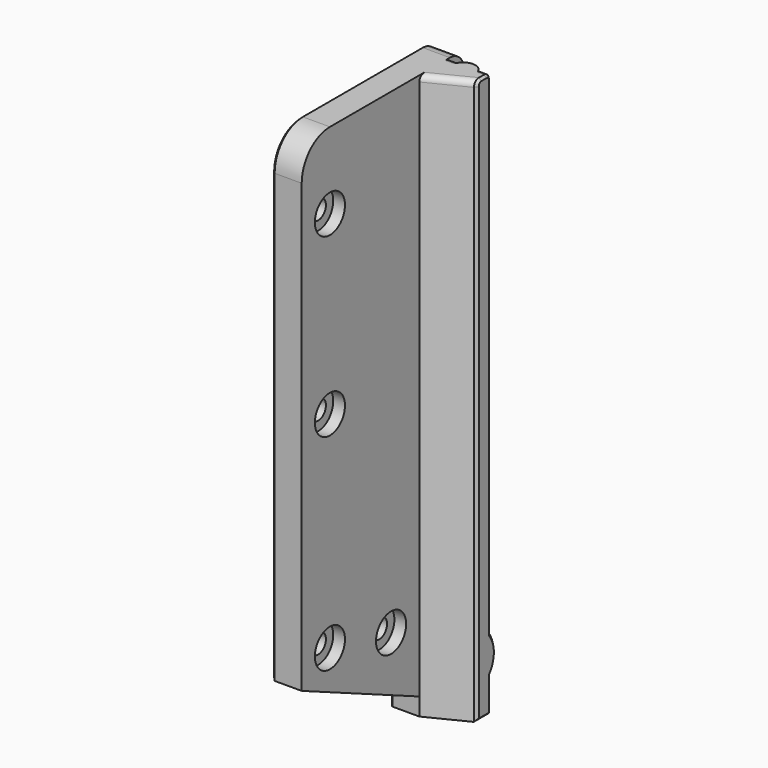
from build123d import *

# Parameters (mm, degrees)
PAD_DEPTH       = 96
SKETCH001_R     = 2
PAD001_DEPTH    = 96
PAD002_DEPTH    = 7
SKETCH003_R     = 1.65
POCKET_DEPTH    = 12.001
SKETCH004_R     = 3.2
POCKET001_DEPTH = 2
POCKET004_DEPTH = 5.001
SKETCH014_R     = 1.65
POCKET010_DEPTH = 5.001
SKETCH015_R     = 3.2
POCKET011_DEPTH = 2
FILLET_R        = 6
FILLET001_R     = 3
CHAMFER001_SIZE = 0.4
FILLET002_R     = 1
CHAMFER002_SIZE = 0.4


with BuildPart() as part:
    # Sketch → Pad (new body)
    with BuildSketch(Plane.XY):
        Polygon((0, 0), (0, 3), (-5, 3), (-5, -31.5), (0, -31.5), (0, -6.5), (7, -3), (7, 0), align=None)
    extrude(amount=PAD_DEPTH)

    # Sketch001 (on Face10 of Pad) → Pad001 (join)
    with BuildSketch(Plane.XY.offset(96)):
        with Locations((3.5, -1.5)):
            Circle(SKETCH001_R)
    extrude(amount=-PAD001_DEPTH)

    # Sketch002 (on Face7 of Pad001) → Pad002 (join)
    with BuildSketch(Plane.YZ.offset(7)):
        with BuildLine():
            ThreePointArc((0, 6), (1, 9), (0, 12))
            Line((0, 12), (0, 6))
        make_face()
    extrude(amount=-PAD002_DEPTH)

    # Sketch003 (on Face14 of Pad002) → Pocket (cut, through all)
    with BuildSketch(Plane(origin=(-5, 0, 0), x_dir=(0, -1, 0), z_dir=(-1, 0, 0))):
        with Locations((25.5, 18)):
            Circle(SKETCH003_R)
        with Locations((25.5, 53)):
            Circle(SKETCH003_R)
        with Locations((25.5, 83)):
            Circle(SKETCH003_R)
    extrude(amount=-POCKET_DEPTH, mode=Mode.SUBTRACT)

    # Sketch004 (on Face12 of Pocket) → Pocket001 (cut)
    with BuildSketch(Plane.YZ):
        with Locations((-25.5, 83)):
            Circle(SKETCH004_R)
        with Locations((-25.5, 53)):
            Circle(SKETCH004_R)
        with Locations((-25.5, 18)):
            Circle(SKETCH004_R)
    extrude(amount=-POCKET001_DEPTH, mode=Mode.SUBTRACT)

    # Sketch008 (on Face12 of Pocket001) → Pocket004 (cut, through all)
    with BuildSketch(Plane.YZ):
        Polygon((-31.5, 0), (-31.5, 14), (-6.5, 3), (-6.5, 0), align=None)
    extrude(amount=-POCKET004_DEPTH, mode=Mode.SUBTRACT)

    # Sketch014 (on Face15 of Pocket004) → Pocket010 (cut, through all)
    with BuildSketch(Plane.YZ):
        with Locations((-12.5, 15)):
            Circle(SKETCH014_R)
    extrude(amount=-POCKET010_DEPTH, mode=Mode.SUBTRACT)

    # Sketch015 (on Face15 of Pocket010) → Pocket011 (cut)
    with BuildSketch(Plane.YZ):
        with Locations((-12.5, 15)):
            Circle(SKETCH015_R)
    extrude(amount=-POCKET011_DEPTH, mode=Mode.SUBTRACT)

    # Fillet
    fillet_edges = [part.edges().sort_by_distance(p)[0] for p in [
        (-2.5, -31.5, 96),
    ]]
    fillet(fillet_edges, radius=FILLET_R)

    # Fillet001
    fillet001_edges = [part.edges().sort_by_distance(p)[0] for p in [
        (-2.5, 3, 0),
        (-2.5, 3, 96),
    ]]
    fillet(fillet001_edges, radius=FILLET001_R)

    # Chamfer001
    chamfer001_edges = [part.edges().sort_by_distance(p)[0] for p in [
        (-5, -12.75, 96),
        (-5, 2.12132, 95.12132),
        (-5, -29.742641, 94.242641),
        (-5, 3, 48),
        (-5, -31.5, 52),
        (-5, 2.12132, 0.87868),
        (-5, -19, 8.5),
        (-5, -3.25, 0),
        (-5, -6.5, 1.5),
        (-5, -23.85, 83),
        (-5, -23.85, 53),
        (-5, -14.15, 15),
        (-5, -23.85, 18),
    ]]
    chamfer(chamfer001_edges, length=CHAMFER001_SIZE)

    # Fillet002
    fillet002_edges = [part.edges().sort_by_distance(p)[0] for p in [
        (1.088562, 0, 96),
        (5.911438, 0, 96),
        (3.5, -4.75, 96),
    ]]
    fillet(fillet002_edges, radius=FILLET002_R)

    # Chamfer002
    chamfer002_edges = [part.edges().sort_by_distance(p)[0] for p in [
        (7, -3, 47.5),
        (7, -1.5, 0),
        (7, 0, 3),
        (7, 1, 9),
        (7, 0, 53.5),
        (7, -0.292893, 95.707107),
        (7, -1.440983, 96),
        (7, -2.650284, 95.726464),
    ]]
    chamfer(chamfer002_edges, length=CHAMFER002_SIZE)


with BuildPart() as part_1:
    # Body placement: moved
    add(part.part.moved(Location((5, 0, 0))))


solid = part_1.part
